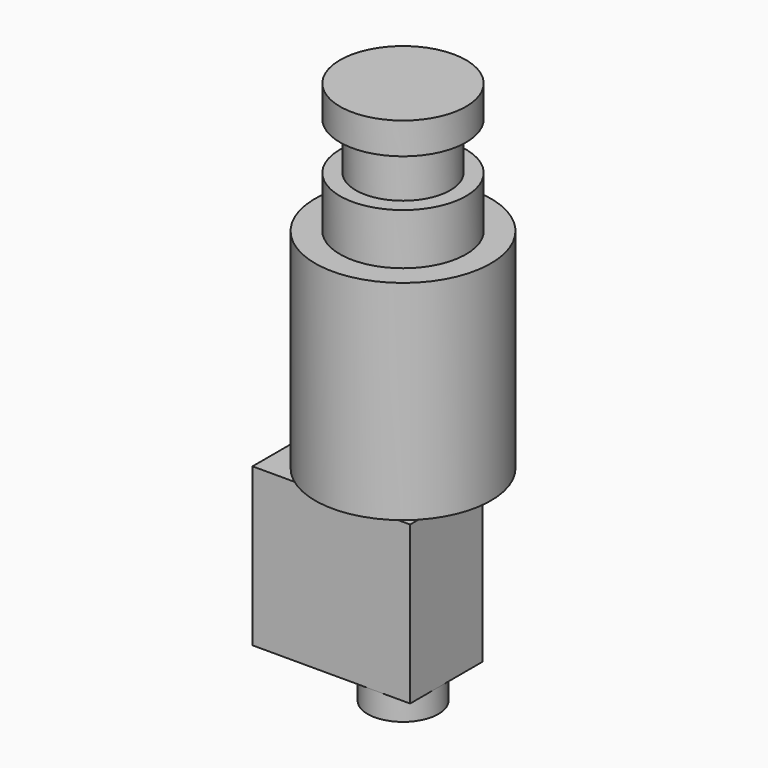
from build123d import *

# Parameters (mm, degrees)
PAD006_DEPTH = 4.5
PAD007_DEPTH = 7


with BuildPart() as part:
    # Sketch015 → Revolution (revolve)
    with BuildSketch(Plane.YZ):
        Polygon((0, 4), (8, 4), (8, 0), (6, 0), (6, -6), (8, -6), (8, -12.5), (11.15, -12.5), (11.15, -39), (3.5, -39), (3.5, -62), (4.5, -62), (4.5, -65), (1.900415, -65), (0.5, -67), (0, -67), align=None)
    revolve(axis=Axis((0, 0, 0), (0, 0, 1)))

    # Sketch016 → Pad006 (new body)
    with BuildSketch(Plane.XZ):
        Polygon((-3.5, -62), (-15.5, -62), (-15.5, -42), (4.5, -42), (4.5, -62), (3.5, -62), align=None)
    extrude(amount=PAD006_DEPTH)

    # Sketch016 → Pad007 (join)
    with BuildSketch(Plane.XZ):
        Polygon((-3.5, -62), (-15.5, -62), (-15.5, -42), (4.5, -42), (4.5, -62), (3.5, -62), align=None)
    extrude(amount=-PAD007_DEPTH)


with BuildPart() as part_1:
    # Body002 placement: moved
    add(part.part.moved(Location((-3, 0, 0))))


solid = part_1.part
